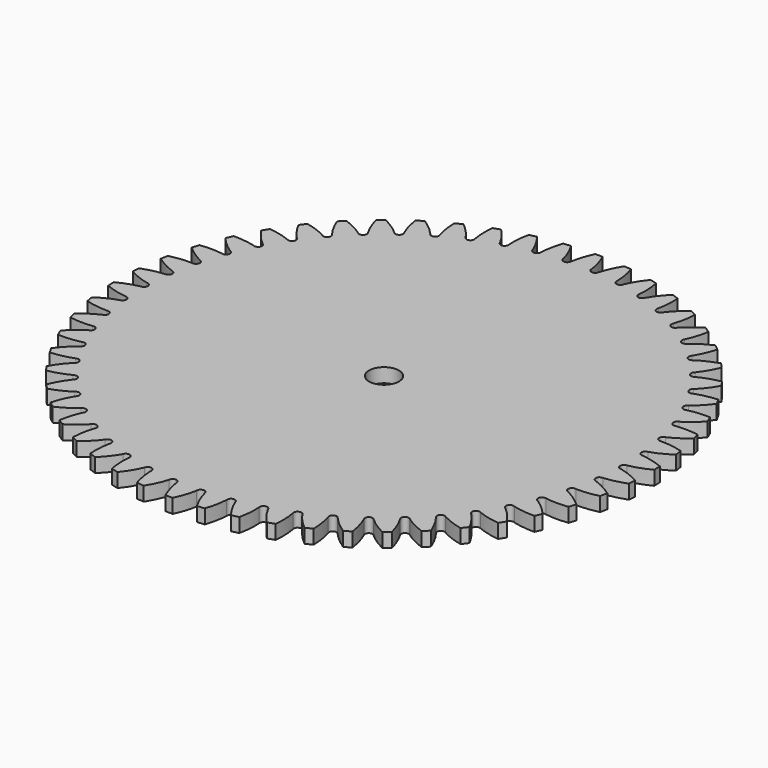
from build123d import *

# Parameters (mm, degrees)
F3_DEPTH  = 6
F5_DEPTH  = 6
F2_R      = 56
F6_DEPTH  = 3
F7_COUNT  = 54
F9_R      = 3.175
F10_DEPTH = 25


with BuildPart() as f3:
    # F1 (on Top) → F3 (new body)
    with BuildSketch(Plane.XY):
        with BuildLine():
            ThreePointArc((55.9043403099, -3.2718090587), (55.9760799688, -1.6366035938), (56, 0))
            ThreePointArc((56, 0), (55.9936620731, 0.8425008268), (55.974649727, 1.6848109498))
            add(Edge.make_bspline(
                [(51.4999277054, 0.0862921427), (51.6660187559, 0.1146265653), (52.0931704936, 0.2047845515), (52.9970207983, 0.4428848094), (54.1999400744, 0.8670066321), (55.2254930407, 1.3110886652), (55.8495197746, 1.6212564614), (55.974649727, 1.6848109498)],
                knots=[0.1119694912, 0.1119694912, 0.1119694912, 0.1119694912, 0.1662090091, 0.2547221185, 0.3550865192, 0.4660435214, 0.4937143471, 0.4937143471, 0.4937143471, 0.4937143471], degree=3))
            ThreePointArc((51.4999277054, 0.0862921427), (51.4999819264, 0.0431460865), (51.5, 0))
            ThreePointArc((51.5, 0), (51.4941895151, -0.7735930361), (51.4767593714, -1.5470115111))
            add(Edge.make_bspline(
                [(51.4767593714, -1.5470115111), (51.6419799129, -1.5800455726), (52.0664025295, -1.6822831003), (52.9631356521, -1.9459245477), (54.153541065, -2.4039955663), (55.1660853752, -2.8769879116), (55.7810633748, -3.2047309305), (55.9043403099, -3.2718090587)],
                knots=[0.1119694912, 0.1119694912, 0.1119694912, 0.1119694912, 0.1662090091, 0.2547221185, 0.3550865192, 0.4660435214, 0.4937143471, 0.4937143471, 0.4937143471, 0.4937143471], degree=3))
        make_face()
    extrude(amount=F3_DEPTH)

    # F4 (on face) → F5 (join)
    with BuildSketch(Plane(origin=(0, 0, 0), x_dir=(1, 0, 0), z_dir=(0, 0, -1))):
        with BuildLine():
            ThreePointArc((51.4999277054, -0.0862921427), (51.4948195505, 0.7304515461), (51.4767593714, 1.5470115111))
            ThreePointArc((51.4767593714, 1.5470115111), (50.6781420468, 0.7188670148), (51.4999277054, -0.0862921427))
        make_face()
    extrude(amount=-F5_DEPTH)


with BuildPart() as f6:
    # F2 (on Top) → F6 (new body)
    with BuildSketch(Plane.XY):
        Circle(F2_R)
    extrude(amount=F6_DEPTH)


with BuildPart() as f7_1:
    # F7: instance of F3
    add(f3.part.rotate(Axis((0, 0, 3), (0, 0, 1)), 1 * 360 / F7_COUNT))


with BuildPart() as f7_2:
    # F7: instance of F3
    add(f3.part.rotate(Axis((0, 0, 3), (0, 0, 1)), 2 * 360 / F7_COUNT))


with BuildPart() as f7_3:
    # F7: instance of F3
    add(f3.part.rotate(Axis((0, 0, 3), (0, 0, 1)), 3 * 360 / F7_COUNT))


with BuildPart() as f7_4:
    # F7: instance of F3
    add(f3.part.rotate(Axis((0, 0, 3), (0, 0, 1)), 4 * 360 / F7_COUNT))


with BuildPart() as f7_5:
    # F7: instance of F3
    add(f3.part.rotate(Axis((0, 0, 3), (0, 0, 1)), 5 * 360 / F7_COUNT))


with BuildPart() as f7_6:
    # F7: instance of F3
    add(f3.part.rotate(Axis((0, 0, 3), (0, 0, 1)), 6 * 360 / F7_COUNT))


with BuildPart() as f7_7:
    # F7: instance of F3
    add(f3.part.rotate(Axis((0, 0, 3), (0, 0, 1)), 7 * 360 / F7_COUNT))


with BuildPart() as f7_8:
    # F7: instance of F3
    add(f3.part.rotate(Axis((0, 0, 3), (0, 0, 1)), 8 * 360 / F7_COUNT))


with BuildPart() as f7_9:
    # F7: instance of F3
    add(f3.part.rotate(Axis((0, 0, 3), (0, 0, 1)), 9 * 360 / F7_COUNT))


with BuildPart() as f7_10:
    # F7: instance of F3
    add(f3.part.rotate(Axis((0, 0, 3), (0, 0, 1)), 10 * 360 / F7_COUNT))


with BuildPart() as f7_11:
    # F7: instance of F3
    add(f3.part.rotate(Axis((0, 0, 3), (0, 0, 1)), 11 * 360 / F7_COUNT))


with BuildPart() as f7_12:
    # F7: instance of F3
    add(f3.part.rotate(Axis((0, 0, 3), (0, 0, 1)), 12 * 360 / F7_COUNT))


with BuildPart() as f7_13:
    # F7: instance of F3
    add(f3.part.rotate(Axis((0, 0, 3), (0, 0, 1)), 13 * 360 / F7_COUNT))


with BuildPart() as f7_14:
    # F7: instance of F3
    add(f3.part.rotate(Axis((0, 0, 3), (0, 0, 1)), 14 * 360 / F7_COUNT))


with BuildPart() as f7_15:
    # F7: instance of F3
    add(f3.part.rotate(Axis((0, 0, 3), (0, 0, 1)), 15 * 360 / F7_COUNT))


with BuildPart() as f7_16:
    # F7: instance of F3
    add(f3.part.rotate(Axis((0, 0, 3), (0, 0, 1)), 16 * 360 / F7_COUNT))


with BuildPart() as f7_17:
    # F7: instance of F3
    add(f3.part.rotate(Axis((0, 0, 3), (0, 0, 1)), 17 * 360 / F7_COUNT))


with BuildPart() as f7_18:
    # F7: instance of F3
    add(f3.part.rotate(Axis((0, 0, 3), (0, 0, 1)), 18 * 360 / F7_COUNT))


with BuildPart() as f7_19:
    # F7: instance of F3
    add(f3.part.rotate(Axis((0, 0, 3), (0, 0, 1)), 19 * 360 / F7_COUNT))


with BuildPart() as f7_20:
    # F7: instance of F3
    add(f3.part.rotate(Axis((0, 0, 3), (0, 0, 1)), 20 * 360 / F7_COUNT))


with BuildPart() as f7_21:
    # F7: instance of F3
    add(f3.part.rotate(Axis((0, 0, 3), (0, 0, 1)), 21 * 360 / F7_COUNT))


with BuildPart() as f7_22:
    # F7: instance of F3
    add(f3.part.rotate(Axis((0, 0, 3), (0, 0, 1)), 22 * 360 / F7_COUNT))


with BuildPart() as f7_23:
    # F7: instance of F3
    add(f3.part.rotate(Axis((0, 0, 3), (0, 0, 1)), 23 * 360 / F7_COUNT))


with BuildPart() as f7_24:
    # F7: instance of F3
    add(f3.part.rotate(Axis((0, 0, 3), (0, 0, 1)), 24 * 360 / F7_COUNT))


with BuildPart() as f7_25:
    # F7: instance of F3
    add(f3.part.rotate(Axis((0, 0, 3), (0, 0, 1)), 25 * 360 / F7_COUNT))


with BuildPart() as f7_26:
    # F7: instance of F3
    add(f3.part.rotate(Axis((0, 0, 3), (0, 0, 1)), 26 * 360 / F7_COUNT))


with BuildPart() as f7_27:
    # F7: instance of F3
    add(f3.part.rotate(Axis((0, 0, 3), (0, 0, 1)), 27 * 360 / F7_COUNT))


with BuildPart() as f7_28:
    # F7: instance of F3
    add(f3.part.rotate(Axis((0, 0, 3), (0, 0, 1)), 28 * 360 / F7_COUNT))


with BuildPart() as f7_29:
    # F7: instance of F3
    add(f3.part.rotate(Axis((0, 0, 3), (0, 0, 1)), 29 * 360 / F7_COUNT))


with BuildPart() as f7_30:
    # F7: instance of F3
    add(f3.part.rotate(Axis((0, 0, 3), (0, 0, 1)), 30 * 360 / F7_COUNT))


with BuildPart() as f7_31:
    # F7: instance of F3
    add(f3.part.rotate(Axis((0, 0, 3), (0, 0, 1)), 31 * 360 / F7_COUNT))


with BuildPart() as f7_32:
    # F7: instance of F3
    add(f3.part.rotate(Axis((0, 0, 3), (0, 0, 1)), 32 * 360 / F7_COUNT))


with BuildPart() as f7_33:
    # F7: instance of F3
    add(f3.part.rotate(Axis((0, 0, 3), (0, 0, 1)), 33 * 360 / F7_COUNT))


with BuildPart() as f7_34:
    # F7: instance of F3
    add(f3.part.rotate(Axis((0, 0, 3), (0, 0, 1)), 34 * 360 / F7_COUNT))


with BuildPart() as f7_35:
    # F7: instance of F3
    add(f3.part.rotate(Axis((0, 0, 3), (0, 0, 1)), 35 * 360 / F7_COUNT))


with BuildPart() as f7_36:
    # F7: instance of F3
    add(f3.part.rotate(Axis((0, 0, 3), (0, 0, 1)), 36 * 360 / F7_COUNT))


with BuildPart() as f7_37:
    # F7: instance of F3
    add(f3.part.rotate(Axis((0, 0, 3), (0, 0, 1)), 37 * 360 / F7_COUNT))


with BuildPart() as f7_38:
    # F7: instance of F3
    add(f3.part.rotate(Axis((0, 0, 3), (0, 0, 1)), 38 * 360 / F7_COUNT))


with BuildPart() as f7_39:
    # F7: instance of F3
    add(f3.part.rotate(Axis((0, 0, 3), (0, 0, 1)), 39 * 360 / F7_COUNT))


with BuildPart() as f7_40:
    # F7: instance of F3
    add(f3.part.rotate(Axis((0, 0, 3), (0, 0, 1)), 40 * 360 / F7_COUNT))


with BuildPart() as f7_41:
    # F7: instance of F3
    add(f3.part.rotate(Axis((0, 0, 3), (0, 0, 1)), 41 * 360 / F7_COUNT))


with BuildPart() as f7_42:
    # F7: instance of F3
    add(f3.part.rotate(Axis((0, 0, 3), (0, 0, 1)), 42 * 360 / F7_COUNT))


with BuildPart() as f7_43:
    # F7: instance of F3
    add(f3.part.rotate(Axis((0, 0, 3), (0, 0, 1)), 43 * 360 / F7_COUNT))


with BuildPart() as f7_44:
    # F7: instance of F3
    add(f3.part.rotate(Axis((0, 0, 3), (0, 0, 1)), 44 * 360 / F7_COUNT))


with BuildPart() as f7_45:
    # F7: instance of F3
    add(f3.part.rotate(Axis((0, 0, 3), (0, 0, 1)), 45 * 360 / F7_COUNT))


with BuildPart() as f7_46:
    # F7: instance of F3
    add(f3.part.rotate(Axis((0, 0, 3), (0, 0, 1)), 46 * 360 / F7_COUNT))


with BuildPart() as f7_47:
    # F7: instance of F3
    add(f3.part.rotate(Axis((0, 0, 3), (0, 0, 1)), 47 * 360 / F7_COUNT))


with BuildPart() as f7_48:
    # F7: instance of F3
    add(f3.part.rotate(Axis((0, 0, 3), (0, 0, 1)), 48 * 360 / F7_COUNT))


with BuildPart() as f7_49:
    # F7: instance of F3
    add(f3.part.rotate(Axis((0, 0, 3), (0, 0, 1)), 49 * 360 / F7_COUNT))


with BuildPart() as f7_50:
    # F7: instance of F3
    add(f3.part.rotate(Axis((0, 0, 3), (0, 0, 1)), 50 * 360 / F7_COUNT))


with BuildPart() as f7_51:
    # F7: instance of F3
    add(f3.part.rotate(Axis((0, 0, 3), (0, 0, 1)), 51 * 360 / F7_COUNT))


with BuildPart() as f7_52:
    # F7: instance of F3
    add(f3.part.rotate(Axis((0, 0, 3), (0, 0, 1)), 52 * 360 / F7_COUNT))


with BuildPart() as f7_53:
    # F7: instance of F3
    add(f3.part.rotate(Axis((0, 0, 3), (0, 0, 1)), 53 * 360 / F7_COUNT))


with BuildPart() as f6_1:
    add(f6.part)

    # F8: cut F7_5, F7_6, F7_7, F7_8, F7_9, F7_10, F7_11, F7_12, F7_13, F7_14, F7_15, F7_16, F7_17, F7_18, F7_19, F7_20, F7_21, F7_22, F7_23, F7_24, F7_25, F7_26, F7_27, F7_28, F7_29, F3, F7_1, F7_2, F7_3, F7_4, F7_30, F7_31, F7_32, F7_33, F7_34, F7_35, F7_36, F7_37, F7_38, F7_39, F7_40, F7_41, F7_42, F7_43, F7_44, F7_45, F7_46, F7_47, F7_48, F7_49, F7_50, F7_51, F7_52, F7_53
    add(f7_5.part, mode=Mode.SUBTRACT)
    add(f7_6.part, mode=Mode.SUBTRACT)
    add(f7_7.part, mode=Mode.SUBTRACT)
    add(f7_8.part, mode=Mode.SUBTRACT)
    add(f7_9.part, mode=Mode.SUBTRACT)
    add(f7_10.part, mode=Mode.SUBTRACT)
    add(f7_11.part, mode=Mode.SUBTRACT)
    add(f7_12.part, mode=Mode.SUBTRACT)
    add(f7_13.part, mode=Mode.SUBTRACT)
    add(f7_14.part, mode=Mode.SUBTRACT)
    add(f7_15.part, mode=Mode.SUBTRACT)
    add(f7_16.part, mode=Mode.SUBTRACT)
    add(f7_17.part, mode=Mode.SUBTRACT)
    add(f7_18.part, mode=Mode.SUBTRACT)
    add(f7_19.part, mode=Mode.SUBTRACT)
    add(f7_20.part, mode=Mode.SUBTRACT)
    add(f7_21.part, mode=Mode.SUBTRACT)
    add(f7_22.part, mode=Mode.SUBTRACT)
    add(f7_23.part, mode=Mode.SUBTRACT)
    add(f7_24.part, mode=Mode.SUBTRACT)
    add(f7_25.part, mode=Mode.SUBTRACT)
    add(f7_26.part, mode=Mode.SUBTRACT)
    add(f7_27.part, mode=Mode.SUBTRACT)
    add(f7_28.part, mode=Mode.SUBTRACT)
    add(f7_29.part, mode=Mode.SUBTRACT)
    add(f3.part, mode=Mode.SUBTRACT)
    add(f7_1.part, mode=Mode.SUBTRACT)
    add(f7_2.part, mode=Mode.SUBTRACT)
    add(f7_3.part, mode=Mode.SUBTRACT)
    add(f7_4.part, mode=Mode.SUBTRACT)
    add(f7_30.part, mode=Mode.SUBTRACT)
    add(f7_31.part, mode=Mode.SUBTRACT)
    add(f7_32.part, mode=Mode.SUBTRACT)
    add(f7_33.part, mode=Mode.SUBTRACT)
    add(f7_34.part, mode=Mode.SUBTRACT)
    add(f7_35.part, mode=Mode.SUBTRACT)
    add(f7_36.part, mode=Mode.SUBTRACT)
    add(f7_37.part, mode=Mode.SUBTRACT)
    add(f7_38.part, mode=Mode.SUBTRACT)
    add(f7_39.part, mode=Mode.SUBTRACT)
    add(f7_40.part, mode=Mode.SUBTRACT)
    add(f7_41.part, mode=Mode.SUBTRACT)
    add(f7_42.part, mode=Mode.SUBTRACT)
    add(f7_43.part, mode=Mode.SUBTRACT)
    add(f7_44.part, mode=Mode.SUBTRACT)
    add(f7_45.part, mode=Mode.SUBTRACT)
    add(f7_46.part, mode=Mode.SUBTRACT)
    add(f7_47.part, mode=Mode.SUBTRACT)
    add(f7_48.part, mode=Mode.SUBTRACT)
    add(f7_49.part, mode=Mode.SUBTRACT)
    add(f7_50.part, mode=Mode.SUBTRACT)
    add(f7_51.part, mode=Mode.SUBTRACT)
    add(f7_52.part, mode=Mode.SUBTRACT)
    add(f7_53.part, mode=Mode.SUBTRACT)

    # F9 (on face) → F10 (cut)
    with BuildSketch(Plane(origin=(0, 0, 0), x_dir=(1, 0, 0), z_dir=(0, 0, -1))):
        Circle(F9_R)
    extrude(amount=-F10_DEPTH, mode=Mode.SUBTRACT)


solid = f6_1.part
